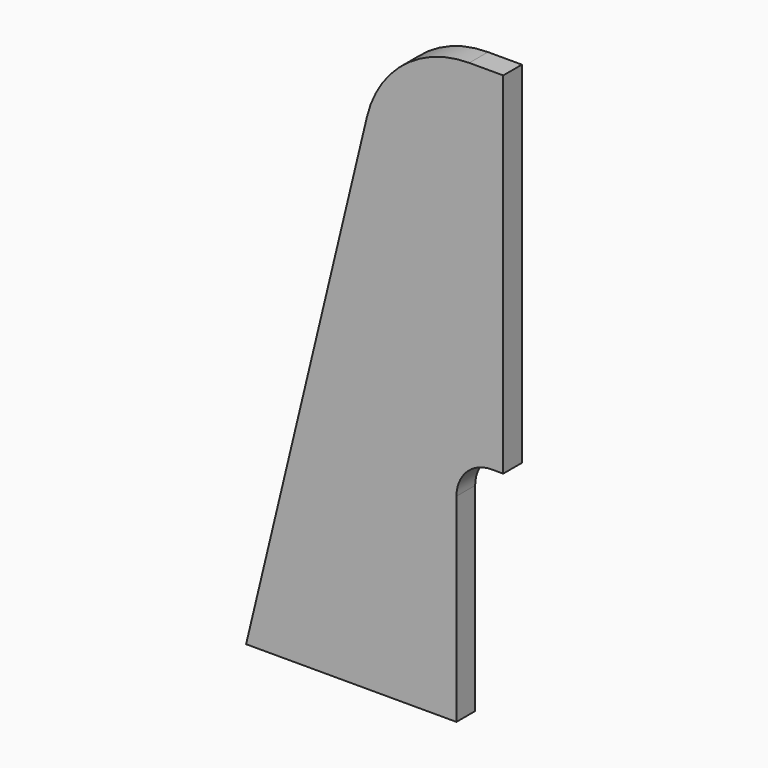
from build123d import *

# Parameters (mm, degrees)
F1_DEPTH = 5


with BuildPart() as f1:
    # F0 (on Front) → F1 (new body, symmetric)
    with BuildSketch(Plane.XZ):
        with BuildLine():
            Line((0, 100), (0, 250))
            Line((0, 250), (-14.522144, 250))
            ThreePointArc((-14.522144, 250), (-42.382687, 240.338225), (-58.279572, 215.501783))
            Line((-58.279572, 215.501783), (-110, 0))
            Line((-110, 0), (-20, 0))
            Line((-20, 0), (-20, 85))
            ThreePointArc((-20, 85), (-15.606602, 95.606602), (-5, 100))
            Line((-5, 100), (0, 100))
        make_face()
    extrude(amount=F1_DEPTH, both=True)


solid = f1.part
